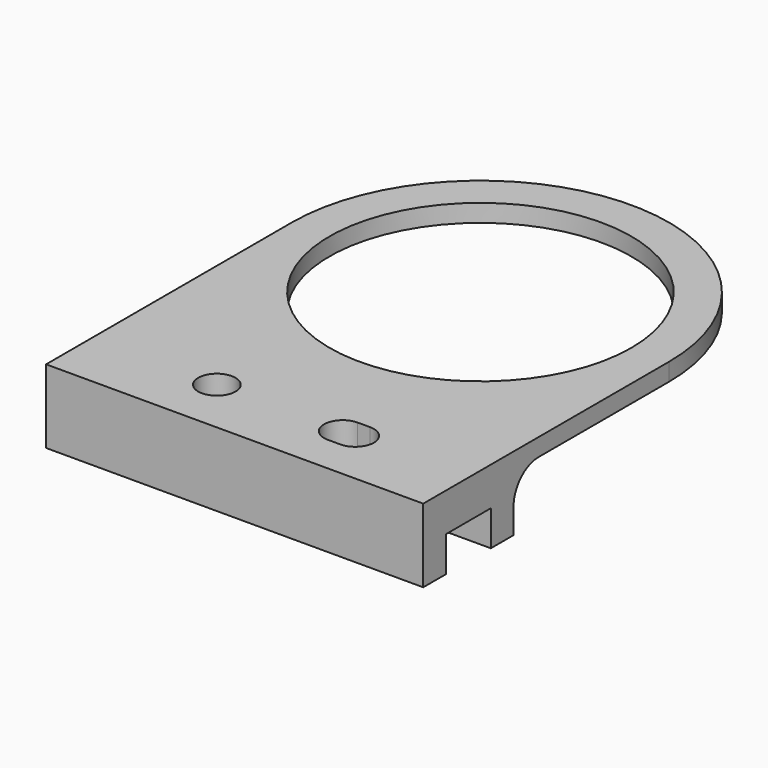
from build123d import *

# Parameters (mm, degrees)
F0_R     = 24.075
F0_W     = 60.15
F0_H     = 4.525
F0_H_2   = 8.95
F0_R_2   = 1.5
F1_DEPTH = 11.75
F2_DEPTH = 5.625
F3_R     = 2.975
F4_DEPTH = 4.63
F5_DEPTH = 8.94
F6_R     = 5


with BuildPart() as f1:
    # F0 (on Top) → F1 (new body)
    with BuildSketch(Plane.XY):
        with BuildLine():
            ThreePointArc((-30.075, 0), (0, -30.075), (30.075, 0))
            ThreePointArc((30.075, 0), (0, 30.075), (-30.075, 0))
        make_face()
        Circle(F0_R, mode=Mode.SUBTRACT)
        with BuildLine():
            Line((30.075, -31), (30.075, 0))
            ThreePointArc((30.075, 0), (0, -30.075), (-30.075, 0))
            Line((-30.075, 0), (-30.075, -31))
            Line((-30.075, -31), (30.075, -31))
        make_face()
        with Locations((0, -33.2625)):
            Rectangle(F0_W, F0_H)
        with Locations((0, -40)):
            Rectangle(F0_W, F0_H_2)
        with Locations((-10.035, -40)):
            Circle(F0_R_2, mode=Mode.SUBTRACT)
        with BuildLine():
            ThreePointArc((10.035, -41.5), (8.535, -40), (10.035, -38.5))
            Line((10.035, -38.5), (12.035, -38.5))
            ThreePointArc((12.035, -38.5), (13.0956601718, -38.9393398282), (13.535, -40))
            ThreePointArc((13.535, -40), (13.0956601718, -41.0606601718), (12.035, -41.5))
            Line((12.035, -41.5), (10.035, -41.5))
        make_face(mode=Mode.SUBTRACT)
        with Locations((0, -46.7375)):
            Rectangle(F0_W, F0_H)
    extrude(amount=F1_DEPTH)

    # F0 (on Top) → F2 (cut)
    with BuildSketch(Plane.XY):
        with Locations((0, -40)):
            Rectangle(F0_W, F0_H_2)
        with Locations((-10.035, -40)):
            Circle(F0_R_2, mode=Mode.SUBTRACT)
        with BuildLine():
            ThreePointArc((10.035, -41.5), (8.535, -40), (10.035, -38.5))
            Line((10.035, -38.5), (12.035, -38.5))
            ThreePointArc((12.035, -38.5), (13.0956601718, -38.9393398282), (13.535, -40))
            ThreePointArc((13.535, -40), (13.0956601718, -41.0606601718), (12.035, -41.5))
            Line((12.035, -41.5), (10.035, -41.5))
        make_face(mode=Mode.SUBTRACT)
    extrude(amount=F2_DEPTH, mode=Mode.SUBTRACT)

    # F3 (on face) → F4 (cut)
    with BuildSketch(Plane.XY.offset(11.75)):
        with Locations((-10.035, -40)):
            Circle(F3_R)
        with BuildLine():
            Line((12.035, -37.025), (10.035, -37.025))
            ThreePointArc((10.035, -37.025), (7.06, -40), (10.035, -42.975))
            Line((10.035, -42.975), (12.035, -42.975))
            ThreePointArc((12.035, -42.975), (15.01, -40), (12.035, -37.025))
        make_face()
        with BuildLine():
            ThreePointArc((10.035, -41.5), (8.535, -40), (10.035, -38.5))
            Line((10.035, -38.5), (12.035, -38.5))
            ThreePointArc((12.035, -38.5), (13.535, -40), (12.035, -41.5))
            Line((12.035, -41.5), (10.035, -41.5))
        make_face(mode=Mode.SUBTRACT)
    extrude(amount=-F4_DEPTH, mode=Mode.SUBTRACT)

    # F0 (on Top) → F5 (cut)
    with BuildSketch(Plane.XY):
        with BuildLine():
            ThreePointArc((-30.075, 0), (0, -30.075), (30.075, 0))
            ThreePointArc((30.075, 0), (0, 30.075), (-30.075, 0))
        make_face()
        Circle(F0_R, mode=Mode.SUBTRACT)
        with BuildLine():
            Line((30.075, -31), (30.075, 0))
            ThreePointArc((30.075, 0), (0, -30.075), (-30.075, 0))
            Line((-30.075, 0), (-30.075, -31))
            Line((-30.075, -31), (30.075, -31))
        make_face()
    extrude(amount=F5_DEPTH, mode=Mode.SUBTRACT)

    # F6
    f6_edges = [f1.edges().sort_by_distance(p)[0] for p in [
        (0, -31, 8.94),
    ]]
    fillet(f6_edges, radius=F6_R)


solid = f1.part
